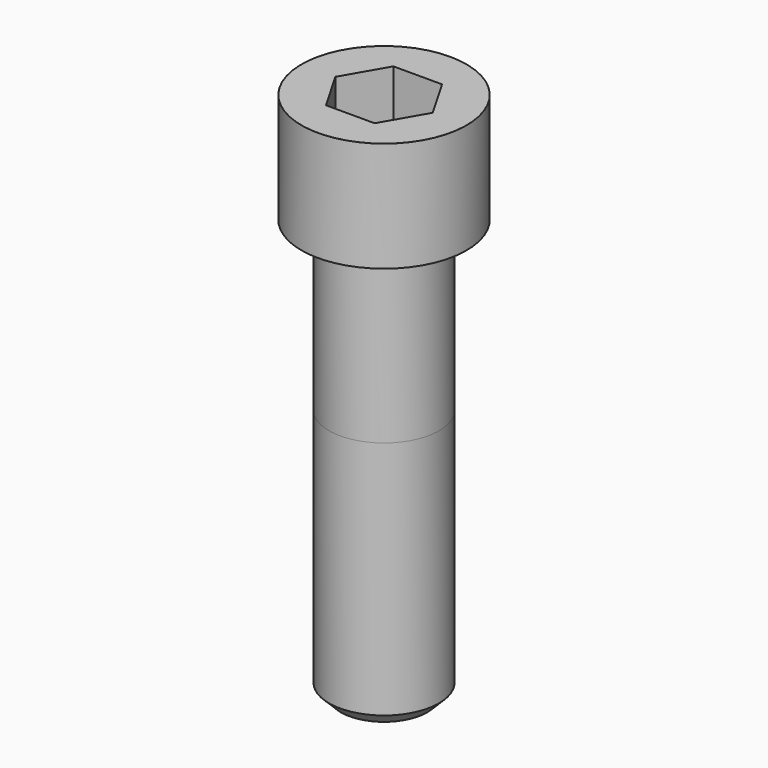
from build123d import *

# Parameters (mm, degrees)
POCKET_DEPTH = 32.15


with BuildPart() as part:
    # Sketch → Revolve (revolve)
    with BuildSketch(Plane.YZ):
        with BuildLine():
            Line((20.999, 0), (31.5, 0))
            Line((31.5, 0), (31.5, 41.97229))
            ThreePointArc((31.5, 41.97229), (31.491884, 41.991884), (31.47229, 42))
            Line((31.47229, 42), (0, 42))
            Line((0, -160), (0, 42))
            Line((16.5, -160), (0, -160))
            Line((21, -155.5), (16.5, -160))
            Line((21, -64), (21, -155.5))
            Line((20.999, 0), (21, -64))
        make_face()
    revolve(axis=Axis((0, 0, 0), (0, 0, 1)))

    # Sketch001 → Pocket (cut)
    with BuildSketch(Plane.XY.offset(42)):
        Polygon((18.561811, 0), (9.280906, 16.075), (-9.280906, 16.075), (-18.561811, 0), (-9.280906, -16.075), (9.280906, -16.075), align=None)
    extrude(amount=-POCKET_DEPTH, mode=Mode.SUBTRACT)


solid = part.part
